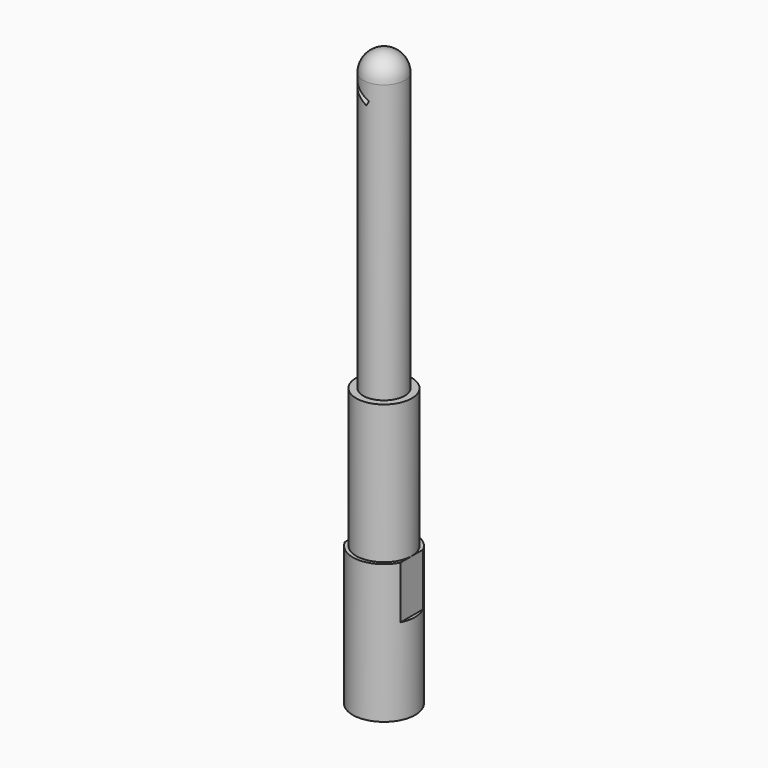
from build123d import *

# Parameters (mm, degrees)
F2_W          = 3
F2_H          = 11
F3_DEPTH      = 9.001
F3_DEPTH_BACK = 9.001
F4_W          = 3
F4_H          = 16
F5_DEPTH      = 9.001
F5_DEPTH_BACK = 9.001
F7_DEPTH      = 9.001
F7_DEPTH_BACK = 9.001


with BuildPart() as f1:
    # F0 (on Front) → F1 (revolve)
    with BuildSketch(Plane.XZ):
        with BuildLine():
            Line((-9, 0), (-3.5, 0))
            Line((-3.5, 0), (-3.5, 160))
            Line((-3.5, 160), (0, 162))
            Line((0, 162), (0, 166))
            ThreePointArc((0, 166), (-4.2426406871, 164.2426406871), (-6, 160))
            Line((-6, 160), (-6, 80))
            Line((-6, 80), (-8, 80))
            Line((-8, 80), (-8, 40))
            Line((-8, 40), (-9, 40))
            Line((-9, 40), (-9, 0))
        make_face()
    revolve(axis=Axis((0, 0, 83), (0, 0, -1)))

    # F2 (on Front) → F3 (cut, two sides)
    with BuildSketch(Plane.XZ) as f3_sk:
        with Locations((-9.5278133973, 34.973811388)):
            Rectangle(F2_W, F2_H)
    extrude(amount=-F3_DEPTH, mode=Mode.SUBTRACT)
    extrude(f3_sk.sketch, amount=F3_DEPTH_BACK, mode=Mode.SUBTRACT)

    # F4 (on Front) → F5 (cut, two sides)
    with BuildSketch(Plane.XZ) as f5_sk:
        with Locations((9.5230324529, 32.8434021473)):
            Rectangle(F4_W, F4_H)
    extrude(amount=-F5_DEPTH, mode=Mode.SUBTRACT)
    extrude(f5_sk.sketch, amount=F5_DEPTH_BACK, mode=Mode.SUBTRACT)

    # F6 (on Front) → F7 (cut, two sides)
    with BuildSketch(Plane.XZ) as f7_sk:
        Polygon((-8.3235528891, 160.1148097822), (-9.0406632825, 158.7973301111), (-0.2574654756, 154.0165941548), (0.4596449178, 155.3340738258), align=None)
    extrude(amount=F7_DEPTH, mode=Mode.SUBTRACT)
    extrude(f7_sk.sketch, amount=-F7_DEPTH_BACK, mode=Mode.SUBTRACT)


solid = f1.part
